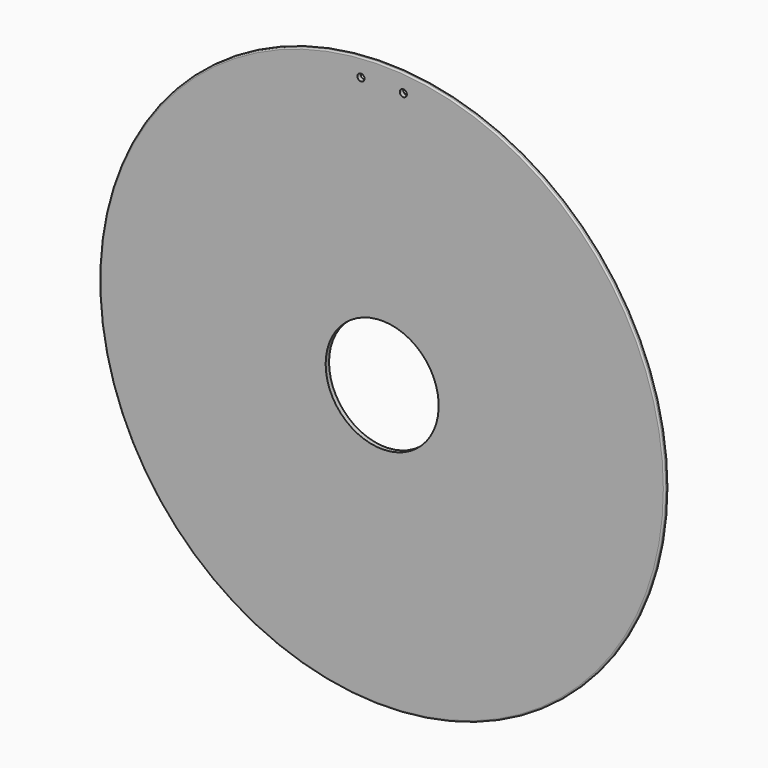
from build123d import *

# Parameters (mm, degrees)
F0_R     = 200
F1_DEPTH = 3
F2_D     = 5
F2_DEPTH = 60
F2_TIP   = 1.5021515476
F3_R     = 1
F4_D     = 80
F4_DEPTH = 60
F4_TIP   = 24.0344247611


with BuildPart() as f1:
    # F0 (on Front) → F1 (new body)
    with BuildSketch(Plane.XZ):
        Circle(F0_R)
    extrude(amount=F1_DEPTH)

    # F2
    with Locations(Plane(origin=(0, 0, 0), x_dir=(1, 0, 0), z_dir=(0, 1, 0))):
        with Locations((-15, -186.6666666667), (15, -186.6666666667)):
            Hole(F2_D / 2, depth=F2_DEPTH)
            with Locations((0, 0, -(F2_DEPTH + F2_TIP / 2))):  # 118° drill point
                Cone(0, F2_D / 2, F2_TIP, mode=Mode.SUBTRACT)

    # F3
    f3_edges = [f1.edges().sort_by_distance(p)[0] for p in [
        (-200, -3, 0),
        (-200, 0, 0),
    ]]
    fillet(f3_edges, radius=F3_R)

    # F4
    with Locations(Plane(origin=(0, 0, 0), x_dir=(1, 0, 0), z_dir=(0, 1, 0))):
        with Locations((0, 0)):
            Hole(F4_D / 2, depth=F4_DEPTH)
            with Locations((0, 0, -(F4_DEPTH + F4_TIP / 2))):  # 118° drill point
                Cone(0, F4_D / 2, F4_TIP, mode=Mode.SUBTRACT)


solid = f1.part
